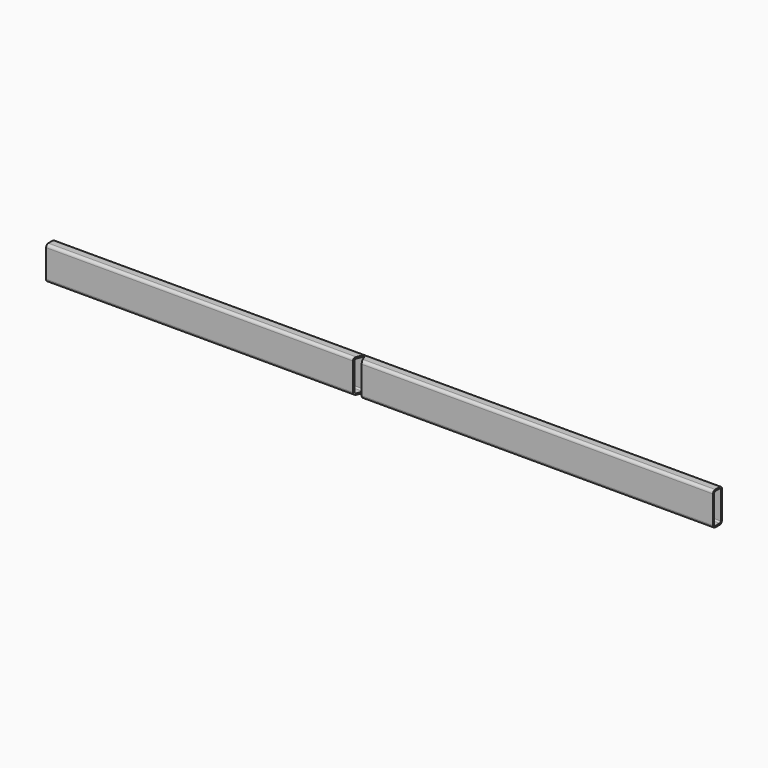
from build123d import *

# Parameters (mm, degrees)
F1_DEPTH = 3048
F3_DEPTH = 152.401


with BuildPart() as f1:
    # F0 (on Right) → F1 (new body)
    with BuildSketch(Plane.YZ):
        with BuildLine():
            ThreePointArc((25.4, 63.5), (21.680256, 72.480256), (12.7, 76.2))
            Line((12.7, 76.2), (-12.7, 76.2))
            ThreePointArc((-12.7, 76.2), (-21.680256, 72.480256), (-25.4, 63.5))
            Line((-25.4, 63.5), (-25.4, -63.5))
            ThreePointArc((-25.4, -63.5), (-21.680256, -72.480256), (-12.7, -76.2))
            Line((-12.7, -76.2), (12.7, -76.2))
            ThreePointArc((12.7, -76.2), (21.680256, -72.480256), (25.4, -63.5))
            Line((25.4, -63.5), (25.4, 63.5))
        make_face()
        with BuildLine():
            Line((-19.05, -63.5), (-19.05, 63.5))
            ThreePointArc((-19.05, 63.5), (-17.190128, 67.990128), (-12.7, 69.85))
            Line((-12.7, 69.85), (12.7, 69.85))
            ThreePointArc((12.7, 69.85), (17.190128, 67.990128), (19.05, 63.5))
            Line((19.05, 63.5), (19.05, -63.5))
            ThreePointArc((19.05, -63.5), (17.190128, -67.990128), (12.7, -69.85))
            Line((12.7, -69.85), (-12.7, -69.85))
            ThreePointArc((-12.7, -69.85), (-17.190128, -67.990128), (-19.05, -63.5))
        make_face(mode=Mode.SUBTRACT)
    extrude(amount=F1_DEPTH)

    # F2 (on face) → F3 (cut, through all)
    with BuildSketch(Plane.XY.offset(76.2)):
        Polygon((1423.9875, 19.05), (1420.8125, 19.05), (1402.400707, -25.4), (1442.399293, -25.4), align=None)
    extrude(amount=-F3_DEPTH, mode=Mode.SUBTRACT)


solid = f1.part
